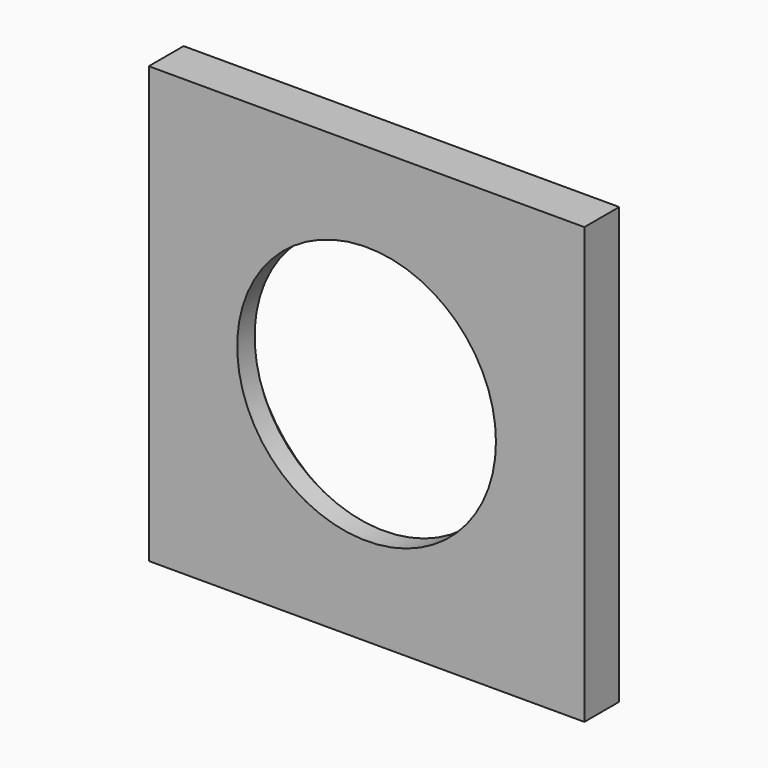
from build123d import *

# Parameters (mm, degrees)
F0_W     = 127
F0_H     = 127
F0_R     = 37.719
F1_DEPTH = 12.7
F2_SIZE2 = 6.35
F2_SIZE  = 6.35


with BuildPart() as f1:
    # F0 (on Front) → F1 (new body)
    with BuildSketch(Plane.XZ):
        Rectangle(F0_W, F0_H)
        Circle(F0_R, mode=Mode.SUBTRACT)
    extrude(amount=F1_DEPTH)

    # F2
    f2_edges = [f1.edges().sort_by_distance(p)[0] for p in [
        (-37.719, 0, 0),
    ]]
    chamfer(f2_edges, length=F2_SIZE, length2=F2_SIZE2)


solid = f1.part
